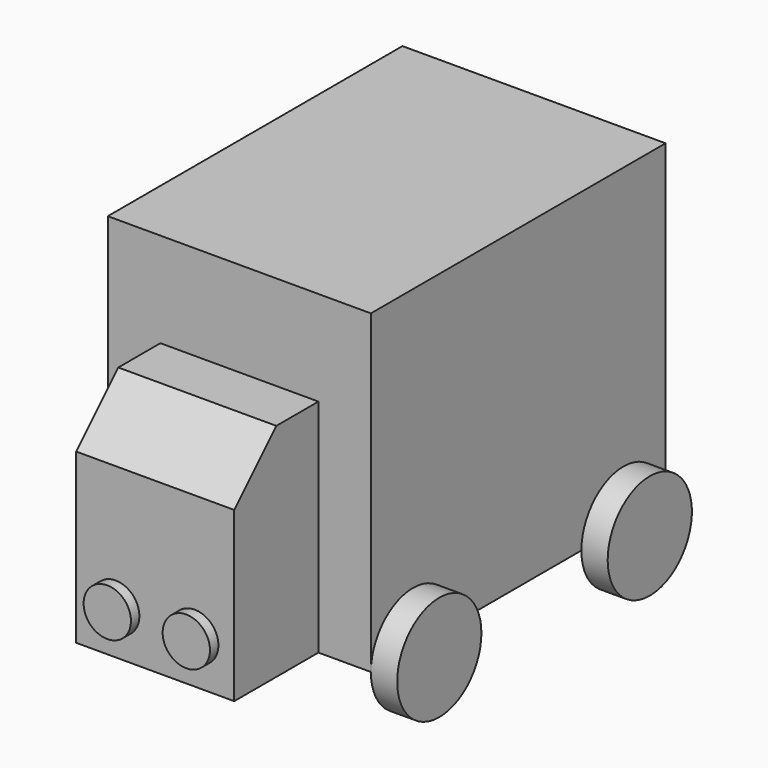
from build123d import *

# Parameters (mm, degrees)
F0_W     = 12.7
F0_H     = 15.24
F1_DEPTH = 17.78
F3_DEPTH = 5.08
F5_DEPTH = 1.27
F7_DEPTH = 0.508
F9_DEPTH = 1.27
F10_SIZE = 2.54


with BuildPart() as f1:
    # F0 (on Front) → F1 (new body)
    with BuildSketch(Plane.XZ):
        Rectangle(F0_W, F0_H)
    extrude(amount=F1_DEPTH)

    # F2 (on face) → F3 (join)
    with BuildSketch(Plane.XZ.offset(17.78)):
        Polygon((3.81, 3.048), (-3.81, 3.048), (-3.81, -7.62), (3.8175627124, -7.62), (3.8175627124, 3.048), align=None)
    extrude(amount=F3_DEPTH)

    # F4 (on face) → F5 (join)
    with BuildSketch(Plane(origin=(-6.35, 0, 0), x_dir=(0, -1, 0), z_dir=(-1, 0, 0))):
        with BuildLine():
            Line((0, -7.62), (5.08, -7.62))
            ThreePointArc((5.08, -7.62), (2.54, -5.08), (0, -7.62))
        make_face()
        with BuildLine():
            ThreePointArc((0, -7.62), (2.54, -10.16), (5.08, -7.62))
            Line((5.08, -7.62), (0, -7.62))
        make_face()
        with BuildLine():
            Line((12.7, -7.62), (17.78, -7.62))
            ThreePointArc((17.78, -7.62), (15.24, -5.08), (12.7, -7.62))
        make_face()
        with BuildLine():
            ThreePointArc((12.7, -7.62), (15.24, -10.16), (17.78, -7.62))
            Line((17.78, -7.62), (12.7, -7.62))
        make_face()
    extrude(amount=F5_DEPTH)

    # F6 (on face) → F7 (join)
    with BuildSketch(Plane.XZ.offset(22.86)):
        with BuildLine():
            Line((-3.0461093219, -5.4919943213), (-0.7601093219, -5.4919943213))
            ThreePointArc((-0.7601093219, -5.4919943213), (-1.9031093219, -4.3489943213), (-3.0461093219, -5.4919943213))
        make_face()
        with BuildLine():
            ThreePointArc((-3.0461093219, -5.4919943213), (-1.9031093219, -6.6349943213), (-0.7601093219, -5.4919943213))
            Line((-0.7601093219, -5.4919943213), (-3.0461093219, -5.4919943213))
        make_face()
        with BuildLine():
            ThreePointArc((3.0536720343, -5.4919943213), (1.9106720343, -4.3489943213), (0.7676720343, -5.4919943213))
            Line((0.7676720343, -5.4919943213), (3.0536720343, -5.4919943213))
        make_face()
        with BuildLine():
            Line((3.0536720343, -5.4919943213), (0.7676720343, -5.4919943213))
            ThreePointArc((0.7676720343, -5.4919943213), (1.9106720343, -6.6349943213), (3.0536720343, -5.4919943213))
        make_face()
    extrude(amount=F7_DEPTH)

    # F8 (on face) → F9 (join)
    with BuildSketch(Plane.YZ.offset(6.35)):
        with BuildLine():
            ThreePointArc((-17.78, -7.62), (-15.24, -10.16), (-12.7, -7.62))
            Line((-12.7, -7.62), (-17.78, -7.62))
        make_face()
        with BuildLine():
            Line((-17.78, -7.62), (-12.7, -7.62))
            ThreePointArc((-12.7, -7.62), (-15.24, -5.08), (-17.78, -7.62))
        make_face()
        with BuildLine():
            ThreePointArc((0, -7.62), (-2.54, -5.08), (-5.08, -7.62))
            Line((-5.08, -7.62), (0, -7.62))
        make_face()
        with BuildLine():
            Line((0, -7.62), (-5.08, -7.62))
            ThreePointArc((-5.08, -7.62), (-2.54, -10.16), (0, -7.62))
        make_face()
    extrude(amount=F9_DEPTH)

    # F10
    f10_edges = [f1.edges().sort_by_distance(p)[0] for p in [
        (0.003781, -22.86, 3.048),
    ]]
    chamfer(f10_edges, length=F10_SIZE)


solid = f1.part
